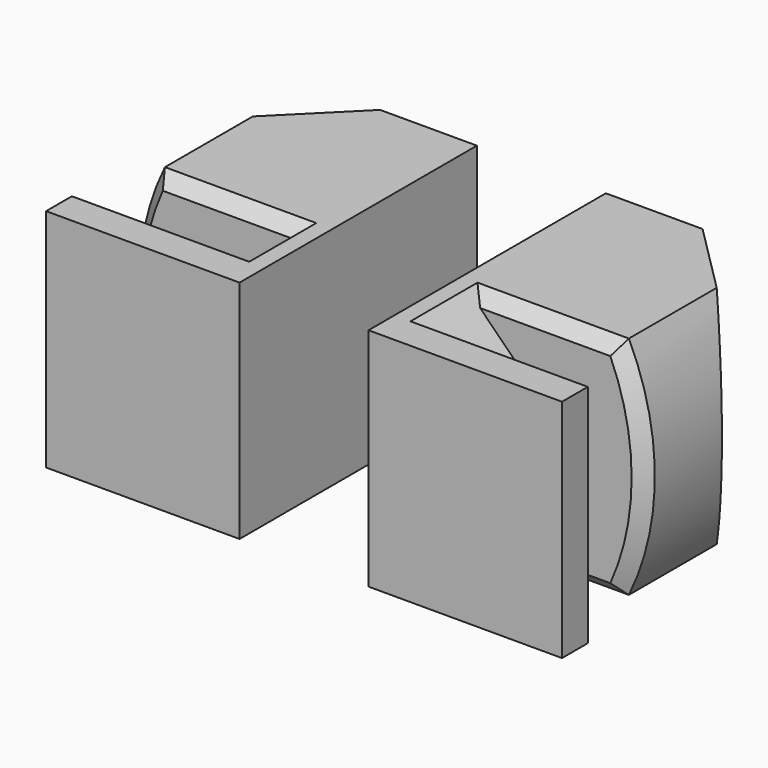
from build123d import *

# Parameters (mm, degrees)
BOX005_W        = 6
BOX005_H        = 1
BOX005_DEPTH    = 7
BOX002_W        = 6
BOX002_H        = 1
BOX002_DEPTH    = 7
BOX001_W        = 2
BOX001_H        = 9
BOX001_DEPTH    = 7
BOX_W           = 2
BOX_H           = 9
BOX_DEPTH       = 7
CHAMFER_SIZE    = 1.5
BOX003_W        = 6
BOX003_H        = 6
BOX003_DEPTH    = 7
BOX004_W        = 6
BOX004_H        = 6
BOX004_DEPTH    = 7
CHAMFER001_SIZE = 3
CYLINDER_R      = 8
CYLINDER_DEPTH  = 10
CHAMFER002_SIZE = 0.4


with BuildPart() as cube005:
    # Box005 → Box005 (new body)
    with BuildSketch(Plane(origin=(2, -1, 0.5), x_dir=(1, 0, 0), z_dir=(0, 0, 1))):
        with Locations((3, 0.5)):
            Rectangle(BOX005_W, BOX005_H)
    extrude(amount=BOX005_DEPTH)


with BuildPart() as cube002:
    # Box002 → Box002 (new body)
    with BuildSketch(Plane(origin=(-8, -1, 0.5), x_dir=(1, 0, 0), z_dir=(0, 0, 1))):
        with Locations((3, 0.5)):
            Rectangle(BOX002_W, BOX002_H)
    extrude(amount=BOX002_DEPTH)


with BuildPart() as cube001:
    # Box001 → Box001 (new body)
    with BuildSketch(Plane(origin=(2, -1, 0.5), x_dir=(1, 0, 0), z_dir=(0, 0, 1))):
        with Locations((1, 4.5)):
            Rectangle(BOX001_W, BOX001_H)
    extrude(amount=BOX001_DEPTH)


with BuildPart() as chamfer_body:
    # Box → Box (new body)
    with BuildSketch(Plane(origin=(-4, -1, 0.5), x_dir=(1, 0, 0), z_dir=(0, 0, 1))):
        with Locations((1, 4.5)):
            Rectangle(BOX_W, BOX_H)
    extrude(amount=BOX_DEPTH)

    # Fusion: union Cube001
    add(cube001.part)

    # Chamfer
    chamfer_edges = [chamfer_body.edges().sort_by_distance(p)[0] for p in [
        (-4, 3.5, 7.5),
        (-4, 3.5, 0.5),
        (4, 3.5, 7.5),
        (4, 3.5, 0.5),
    ]]
    chamfer(chamfer_edges, length=CHAMFER_SIZE)


with BuildPart() as cube003:
    # Box003 → Box003 (new body)
    with BuildSketch(Plane(origin=(2, 2, 0.5), x_dir=(1, 0, 0), z_dir=(0, 0, 1))):
        with Locations((3, 3)):
            Rectangle(BOX003_W, BOX003_H)
    extrude(amount=BOX003_DEPTH)


with BuildPart() as chamfer001:
    # Box004 → Box004 (new body)
    with BuildSketch(Plane(origin=(-8, 2, 0.5), x_dir=(1, 0, 0), z_dir=(0, 0, 1))):
        with Locations((3, 3)):
            Rectangle(BOX004_W, BOX004_H)
    extrude(amount=BOX004_DEPTH)

    # Fusion001: union Cube003
    add(cube003.part)

    # Chamfer001
    chamfer001_edges = [chamfer001.edges().sort_by_distance(p)[0] for p in [
        (-8, 8, 4),
        (8, 8, 4),
    ]]
    chamfer(chamfer001_edges, length=CHAMFER001_SIZE)


with BuildPart() as chamfer001_1:
    # Chamfer001 placement: moved
    add(chamfer001.part.moved(Location((0, 0.2, 0))))


with BuildPart() as obj1:
    # Cylinder → Cylinder (new body)
    with BuildSketch(Plane(origin=(0, 0, 4), x_dir=(1, 0, 0), z_dir=(0, 1, 0))):
        Circle(CYLINDER_R)
    extrude(amount=CYLINDER_DEPTH)

    # Common: intersect Chamfer001
    add(chamfer001_1.part, mode=Mode.INTERSECT)

    # Chamfer002
    chamfer002_edges = [obj1.edges().sort_by_distance(p)[0] for p in [
        (7.795832, 2.2, 5.795832),
        (7.795832, 2.2, 2.204168),
        (4.596874, 2.2, 0.5),
        (4.596874, 2.2, 7.5),
        (-7.795832, 2.2, 5.795832),
        (-7.795832, 2.2, 2.204168),
        (-4.596874, 2.2, 7.5),
        (-4.596874, 2.2, 0.5),
    ]]
    chamfer(chamfer002_edges, length=CHAMFER002_SIZE)

    # Fusion002: union Cube005, Cube002, Chamfer body
    add(cube005.part)
    add(cube002.part)
    add(chamfer_body.part)


solid = obj1.part
